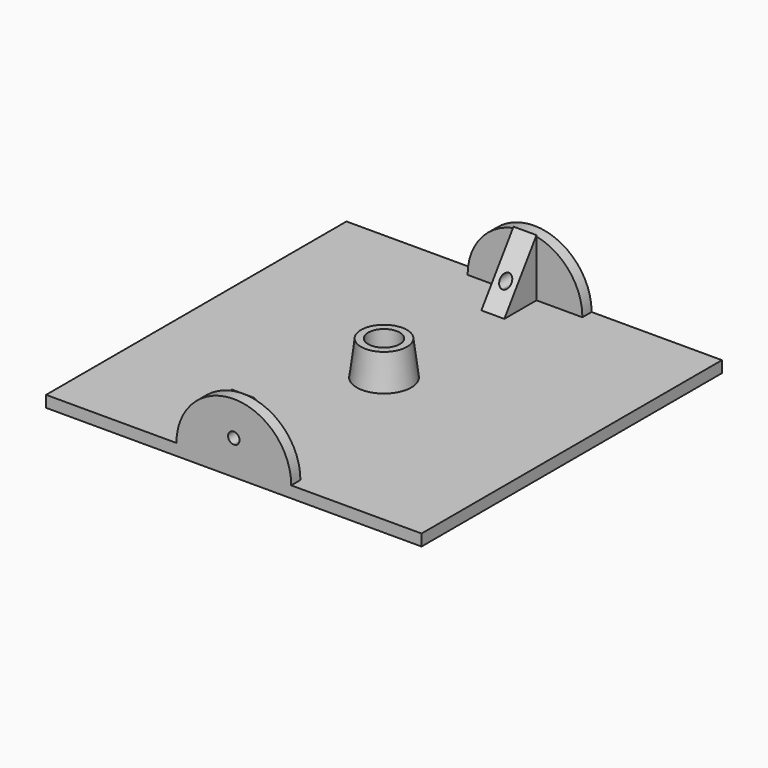
from build123d import *

# Parameters (mm, degrees)
F0_W          = 65.4
F0_H          = 65.4
F1_DEPTH      = 2
F3_DEPTH      = 2
F5_DEPTH      = 2
F7_DEPTH      = 2
F7_DEPTH_BACK = 2
F9_DEPTH      = 65.401
F12_R         = 2.75
F13_DEPTH     = 8.001


with BuildPart() as f1:
    # F0 (on Top) → F1 (new body)
    with BuildSketch(Plane.XY):
        Rectangle(F0_W, F0_H)
    extrude(amount=F1_DEPTH)

    # F2 (on face) → F3 (join)
    with BuildSketch(Plane.XZ.offset(32.7)):
        with BuildLine():
            Line((-10, 2), (0, 2))
            Line((0, 2), (10, 2))
            ThreePointArc((10, 2), (0, 12), (-10, 2))
        make_face()
    extrude(amount=-F3_DEPTH)

    # F4 (on face) → F5 (join)
    with BuildSketch(Plane(origin=(0, 32.7, 0), x_dir=(-1, 0, 0), z_dir=(0, 1, 0))):
        with BuildLine():
            Line((-10, 2), (0, 2))
            Line((0, 2), (10, 2))
            ThreePointArc((10, 2), (0, 12), (-10, 2))
        make_face()
    extrude(amount=-F5_DEPTH)

    # F6 (on Right) → F7 (join, two sides)
    with BuildSketch(Plane.YZ) as f7_sk:
        Polygon((23.7, 2), (30.7, 2), (30.7, 12), align=None)
        Polygon((-23.7, 2), (-30.7, 12), (-30.7, 2), align=None)
    extrude(amount=F7_DEPTH)
    extrude(f7_sk.sketch, amount=-F7_DEPTH_BACK)

    # F8 (on face) → F9 (cut, through all)
    with BuildSketch(Plane.XZ.offset(32.7)):
        with BuildLine():
            ThreePointArc((0, 5), (0.707107, 5.292893), (1, 6))
            ThreePointArc((1, 6), (-0.707107, 6.707107), (0, 5))
        make_face()
    extrude(amount=-F9_DEPTH, mode=Mode.SUBTRACT)

    # F10 (on Front) → F11 (revolve)
    with BuildSketch(Plane.XZ):
        Polygon((0, 8), (0, 0), (5, 0), (4, 8), align=None)
    revolve(axis=Axis((0, 0, 4), (0, 0, 1)))

    # F12 (on face) → F13 (cut, through all)
    with BuildSketch(Plane.XY.offset(8)):
        Circle(F12_R)
    extrude(amount=-F13_DEPTH, mode=Mode.SUBTRACT)


solid = f1.part
